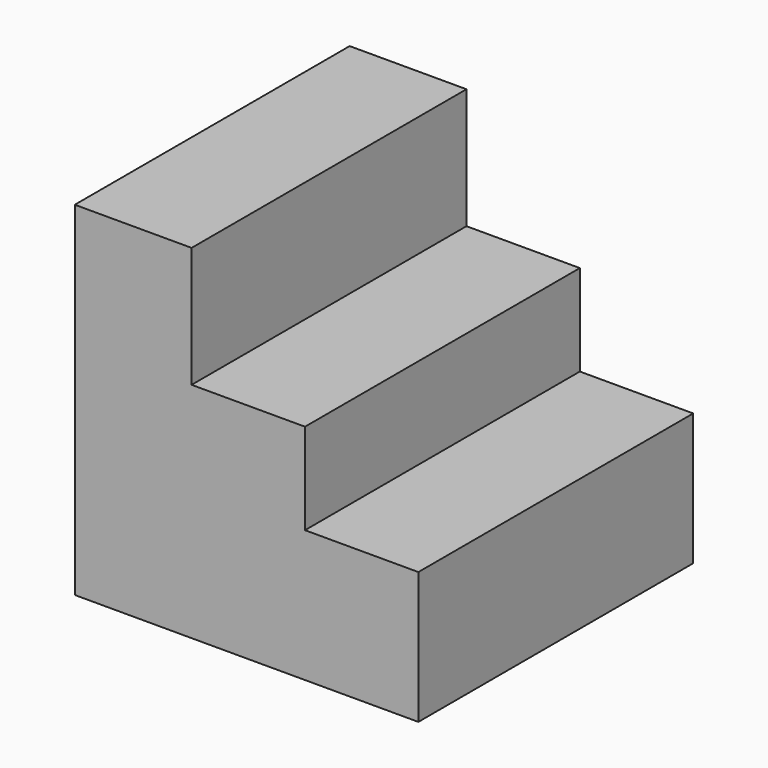
from build123d import *

# Parameters (mm, degrees)
F0_W     = 100
F0_H     = 100
F1_DEPTH = 100
F3_DEPTH = 100


with BuildPart() as f1:
    # F0 (on Top) → F1 (new body)
    with BuildSketch(Plane.XY):
        Rectangle(F0_W, F0_H)
    extrude(amount=F1_DEPTH)

    # F2 (on face) → F3 (cut)
    with BuildSketch(Plane.XZ.offset(50)):
        Polygon((50, 100), (-16, 100), (-16, 64.911917), (17, 64.911917), (17, 38.397651), (50, 38.397651), align=None)
    extrude(amount=-F3_DEPTH, mode=Mode.SUBTRACT)


solid = f1.part
